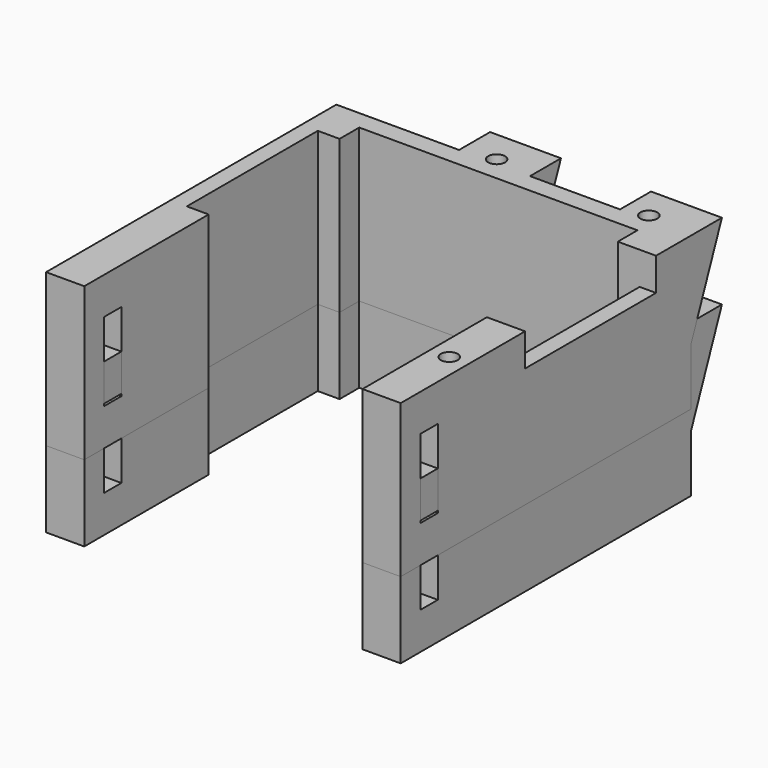
from build123d import *

# Parameters (mm, degrees)
PAD_DEPTH       = 32.5
POCKET_DEPTH    = 28.001
POCKET001_DEPTH = 18
SKETCH003_W     = 9.5
SKETCH003_H     = 18.5
POCKET002_DEPTH = 4.1
SKETCH004_W     = 4
SKETCH004_H     = 14.4
POCKET003_DEPTH = 65.001
SKETCH005_R     = 1.55
POCKET004_DEPTH = 9
SKETCH006_R     = 2
POCKET005_DEPTH = 4.001
POCKET006_DEPTH = 2.5
FILLET_R        = 2
SKETCH008_W     = 59
SKETCH008_H     = 30
POCKET007_DEPTH = 28.001
SKETCH009_W     = 10
SKETCH009_H     = 30
POCKET008_DEPTH = 6


with BuildPart() as pocket008:
    # Sketch → Pad (new body, symmetric)
    with BuildSketch(Plane.YZ):
        Polygon((-66.5, 14), (7.1, 14), (0, -3.573117), (0, -10), (8.5, -10), (8.5, -14), (-66.5, -14), align=None)
    extrude(amount=PAD_DEPTH, both=True)

    # Sketch001 → Pocket (cut, through all)
    with BuildSketch(Plane(origin=(0, 0, 14), x_dir=(0, -1, 0), z_dir=(0, 0, 1))):
        Polygon((3.5, 25.5), (66.5, 25.5), (68.5, 25.5), (68.5, -25.5), (66.5, -25.5), (3.5, -25.5), align=None)
    extrude(amount=-POCKET_DEPTH, mode=Mode.SUBTRACT)

    # Sketch002 → Pocket001 (cut)
    with BuildSketch(Plane(origin=(0, 0, 14), x_dir=(0, -1, 0), z_dir=(0, 0, 1))):
        Polygon((-7.1, 19.5), (0, 19.5), (0, 3), (-7.1, 3), (-8.1, 3), (-8.1, 19.5), align=None)
        Polygon((-7.1, -10), (0, -10), (0, -32.5), (0, -33.5), (-8.1, -33.5), (-8.1, -10), align=None)
    extrude(amount=-POCKET001_DEPTH, mode=Mode.SUBTRACT)

    # Sketch003 → Pocket002 (cut)
    with BuildSketch(Plane.YX.offset(14)):
        Polygon((8.5, 15), (0, 15), (0, 32.5), (0, 33.5), (9.5, 33.5), (9.5, 15), align=None)
        with Locations((4.75, -24.25)):
            Rectangle(SKETCH003_W, SKETCH003_H)
    extrude(amount=-POCKET002_DEPTH, mode=Mode.SUBTRACT)

    # Sketch004 → Pocket003 (cut, through all)
    with BuildSketch(Plane.YZ.offset(32.5)):
        with Locations((-60, 0)):
            Rectangle(SKETCH004_W, SKETCH004_H)
    extrude(amount=-POCKET003_DEPTH, mode=Mode.SUBTRACT)

    # Sketch005 → Pocket004 (cut)
    with BuildSketch(Plane(origin=(0, 0, 14), x_dir=(0, -1, 0), z_dir=(0, 0, 1))):
        with Locations((-1.1, 23.9)):
            Circle(SKETCH005_R)
        with Locations((51, 29)):
            Circle(SKETCH005_R)
        with Locations((-1.1, -4)):
            Circle(SKETCH005_R)
    extrude(amount=-POCKET004_DEPTH, mode=Mode.SUBTRACT)

    # Sketch006 → Pocket005 (cut, through all)
    with BuildSketch(Plane(origin=(0, 0, -10), x_dir=(0, -1, 0), z_dir=(0, 0, 1))):
        with Locations((-4.5, 8.5)):
            Circle(SKETCH006_R)
        with Locations((-4.5, -8.5)):
            Circle(SKETCH006_R)
    extrude(amount=-POCKET005_DEPTH, mode=Mode.SUBTRACT)

    # Sketch007 → Pocket006 (cut)
    with BuildSketch(Plane(origin=(0, 0, -10), x_dir=(0, -1, 0), z_dir=(0, 0, 1))):
        Polygon((-4.5, 12.021837), (-7.55, 10.260918), (-7.55, 6.739082), (-4.5, 4.978163), (-1.45, 6.739082), (-1.45, 10.260918), align=None)
    pocket006 = extrude(amount=-POCKET006_DEPTH, mode=Mode.SUBTRACT)

    # Mirrored: Pocket006 across Sketch007 H_Axis
    add(pocket006.mirror(Plane(origin=(0, 0, -10), x_dir=(0, 0, 1), z_dir=(1, 0, 0))), mode=Mode.SUBTRACT)

    # Fillet
    fillet_edges = [pocket008.edges().sort_by_distance(p)[0] for p in [
        (-15, 8.5, -12),
        (15, 8.5, -12),
    ]]
    fillet(fillet_edges, radius=FILLET_R)

    # Sketch008 → Pocket007 (cut, through all)
    with BuildSketch(Plane.XY.offset(14)):
        with Locations((0, -23)):
            Rectangle(SKETCH008_W, SKETCH008_H)
    extrude(amount=-POCKET007_DEPTH, mode=Mode.SUBTRACT)

    # Sketch009 → Pocket008 (cut)
    with BuildSketch(Plane.XY.offset(14)):
        with Locations((34.5, -23)):
            Rectangle(SKETCH009_W, SKETCH009_H)
    extrude(amount=-POCKET008_DEPTH, mode=Mode.SUBTRACT)


with BuildPart() as battery_pack_holder_final:
    # Clone base: copy of Pocket008
    add(pocket008.part)


with BuildPart() as battery_pack_holder_final_1:
    # Clone placement: moved
    add(battery_pack_holder_final.part.moved(Location((0, 0, 14))))


solid = Compound([pocket008.part, battery_pack_holder_final_1.part])
